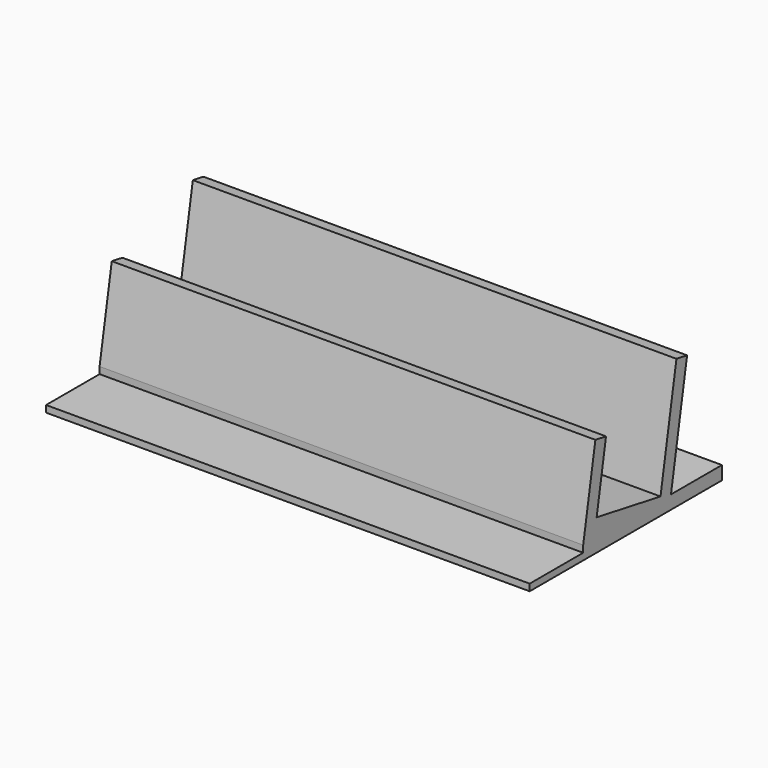
from build123d import *

# Parameters (mm, degrees)
F1_DEPTH = 35.8
F2_W     = 71.6
F2_H     = 1
F3_DEPTH = 9.9


with BuildPart() as f1:
    # F0 (on Right) → F1 (new body, symmetric)
    with BuildSketch(Plane.YZ):
        Polygon((2.952019, 16.741732), (0, 0), (-11.817693, 2.083778), (-10.081211, 11.931856), (-12.050827, 12.279152), (-14.308253, -0.523349), (-14.308253, -2.523349), (11.366984, -2.523349), (11.366984, -0.523349), (1.938573, -0.523349), (4.921635, 16.394435), align=None)
    extrude(amount=F1_DEPTH, both=True)

    # F2 (on face) → F3 (join)
    with BuildSketch(Plane.XZ.offset(14.308253)):
        with Locations((0, -2.023349)):
            Rectangle(F2_W, F2_H)
    extrude(amount=F3_DEPTH)


solid = f1.part
